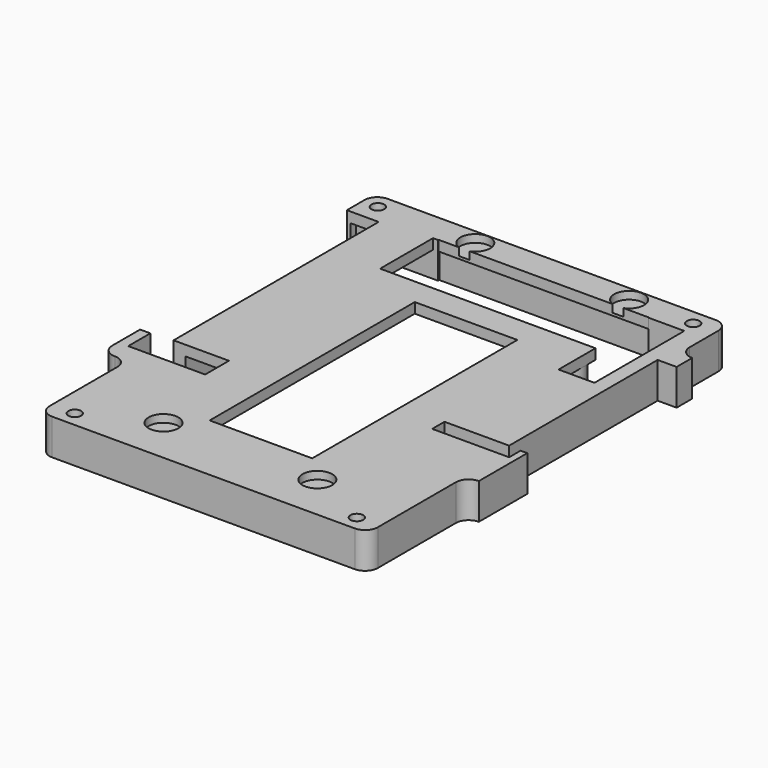
from build123d import *

# Parameters (mm, degrees)
PAD005_DEPTH         = 2
POCKET003_DEPTH      = 2
SKETCH009_R          = 2.7
PAD004_DEPTH         = 5.9
SKETCH013_W          = 25
SKETCH013_H          = 50.4
SKETCH013_H_2        = 36.4
POCKET007_DEPTH      = 5.901
POCKET007_DEPTH_BACK = 0.001
SKETCH016_W          = 2.35
SKETCH016_H          = 50.4
PAD008_DEPTH         = 15
SKETCH017_W          = 2.35
SKETCH017_H          = 36.4
PAD009_DEPTH         = 5
SKETCH019_R          = 2.9
POCKET009_DEPTH      = 1.5
PAD011_DEPTH         = 5
SKETCH023_W          = 8
SKETCH023_H          = 4.5
SKETCH023_W_2        = 10
PAD013_DEPTH         = 7
SKETCH025_R          = 1.25
POCKET011_DEPTH      = 17.001
POCKET011_DEPTH_BACK = 0.001
SKETCH033_W          = 20
SKETCH033_H          = 50
POCKET017_DEPTH      = 17.001
POCKET017_DEPTH_BACK = 0.001
SKETCH042_W          = 15
SKETCH042_H          = 5.8
SKETCH042_H_2        = 3
POCKET021_DEPTH      = 17.001
POCKET021_DEPTH_BACK = 0.001


with BuildPart() as part:
    # Sketch011 → Pad005 (new body)
    with BuildSketch(Plane.XY):
        with BuildLine():
            Line((-29.5, -64), (29.5, -64))
            ThreePointArc((29.5, -64), (31.267767, -63.267767), (32, -61.5))
            Line((32, -42.5), (32, -61.5))
            ThreePointArc((34.5, -40), (32.732233, -40.732233), (32, -42.5))
            Line((34.5, 12), (34.5, -40))
            ThreePointArc((32, 14.5), (32.732233, 12.732233), (34.5, 12))
            Line((32, 21.5), (32, 14.5))
            ThreePointArc((32, 21.5), (31.267767, 23.267767), (29.5, 24))
            Line((29.5, 24), (-34.5, 24))
            ThreePointArc((-34.5, 24), (-36.267767, 23.267767), (-37, 21.5))
            Line((-37, 21.5), (-37, -40))
            ThreePointArc((-37, -40), (-36.267767, -41.767767), (-34.5, -42.5))
            ThreePointArc((-32, -45), (-32.732233, -43.232233), (-34.5, -42.5))
            Line((-32, -45), (-32, -61.5))
            ThreePointArc((-32, -61.5), (-31.267767, -63.267767), (-29.5, -64))
        make_face()
    extrude(amount=-PAD005_DEPTH)

    # Sketch007 → Pocket003 (cut)
    with BuildSketch(Plane.XY):
        Polygon((-21, 18.3), (-21, 5.3), (21, 5.3), (21, -3.7), (28, -3.7), (28, 18.3), align=None)
    extrude(amount=-POCKET003_DEPTH, mode=Mode.SUBTRACT)

    # Sketch009 → Pad004 (join)
    with BuildSketch(Plane.XY):
        with Locations((-18.25, -26)):
            Circle(SKETCH009_R)
        with Locations((12.75, -21)):
            Circle(SKETCH009_R)
        with Locations((18.25, 2.5027)):
            Circle(SKETCH009_R)
    extrude(amount=-PAD004_DEPTH)

    # Sketch013 → Pocket007 (cut, two sides)
    with BuildSketch(Plane.XY) as pocket007_sk:
        with Locations((-43.3, -8)):
            Rectangle(SKETCH013_W, SKETCH013_H)
        with Locations((43.3, -10)):
            Rectangle(SKETCH013_W, SKETCH013_H_2)
    extrude(amount=-POCKET007_DEPTH, mode=Mode.SUBTRACT)
    extrude(pocket007_sk.sketch, amount=POCKET007_DEPTH_BACK, mode=Mode.SUBTRACT)

    # Sketch016 (on Face5 of Pocket007) → Pad008 (join)
    with BuildSketch(Plane(origin=(0, 0, -2), x_dir=(1, 0, 0), z_dir=(0, 0, -1))):
        with Locations((-29.625, 8)):
            Rectangle(SKETCH016_W, SKETCH016_H)
    extrude(amount=PAD008_DEPTH)

    # Sketch017 (on Face5 of Pocket007) → Pad009 (join)
    with BuildSketch(Plane(origin=(0, 0, -2), x_dir=(1, 0, 0), z_dir=(0, 0, -1))):
        with Locations((29.625, 10)):
            Rectangle(SKETCH017_W, SKETCH017_H)
    extrude(amount=PAD009_DEPTH)

    # Sketch019 → Pocket009 (cut)
    with BuildSketch(Plane.XY):
        with Locations((-15, 21)):
            Circle(SKETCH019_R)
        with Locations((15, 21)):
            Circle(SKETCH019_R)
        with Locations((-15, -55)):
            Circle(SKETCH019_R)
        with Locations((15, -55)):
            Circle(SKETCH019_R)
    extrude(amount=-POCKET009_DEPTH, mode=Mode.SUBTRACT)

    # Sketch021 (on Face5 of Pocket009) → Pad011 (join)
    with BuildSketch(Plane(origin=(0, 0, -2), x_dir=(1, 0, 0), z_dir=(0, 0, -1))):
        with BuildLine():
            Line((-29.5, 64), (29.5, 64))
            ThreePointArc((32, 61.5), (31.267767, 63.267767), (29.5, 64))
            Line((32, 61.5), (32, 42.5))
            ThreePointArc((32, 42.5), (32.732233, 40.732233), (34.5, 40))
            Line((34.5, 28.2), (34.5, 40))
            Line((29, 28.2), (34.5, 28.2))
            Line((29, 58.5), (29, 28.2))
            Line((-29, 58.5), (29, 58.5))
            Line((-29, 39.5), (-29, 58.5))
            Line((-34, 39.5), (-29, 39.5))
            Line((-34, 33.2), (-34, 39.5))
            Line((-37, 33.2), (-34, 33.2))
            Line((-37, 40), (-37, 33.2))
            ThreePointArc((-34.5, 42.5), (-36.267767, 41.767767), (-37, 40))
            ThreePointArc((-34.5, 42.5), (-32.732233, 43.232233), (-32, 45))
            Line((-32, 61.5), (-32, 45))
            ThreePointArc((-29.5, 64), (-31.267767, 63.267767), (-32, 61.5))
        make_face()
        with BuildLine():
            Line((34.5, -8.2), (34.5, -12))
            ThreePointArc((34.5, -12), (32.732233, -12.732233), (32, -14.5))
            Line((32, -14.5), (32, -21.5))
            ThreePointArc((29.5, -24), (31.267767, -23.267767), (32, -21.5))
            Line((29.5, -24), (-34.5, -24))
            ThreePointArc((-37, -21.5), (-36.267767, -23.267767), (-34.5, -24))
            Line((-37, -21.5), (-37, -17.2))
            Line((-37, -17.2), (-36.26856, -17.2))
            Line((-36.26856, -17.2), (-36.26856, -18.5))
            Line((-36.26856, -18.5), (29, -18.5))
            Line((29, -18.5), (29, -8.2))
            Line((29, -8.2), (34.5, -8.2))
        make_face()
    extrude(amount=PAD011_DEPTH)

    # Sketch023 → Pad013 (join)
    with BuildSketch(Plane.XY):
        with Locations((-24, 20.45)):
            Rectangle(SKETCH023_W, SKETCH023_H)
        with Locations((25, 20.45)):
            Rectangle(SKETCH023_W, SKETCH023_H)
        with Locations((-18.5, -48.97)):
            Rectangle(SKETCH023_W_2, SKETCH023_H)
        with Locations((18.5, -48.97)):
            Rectangle(SKETCH023_W_2, SKETCH023_H)
    extrude(amount=-PAD013_DEPTH)

    # Sketch025 → Pocket011 (cut, two sides)
    with BuildSketch(Plane.XY) as pocket011_sk:
        with Locations((-34, 21)):
            Circle(SKETCH025_R)
        with Locations((27.5, 21)):
            Circle(SKETCH025_R)
        with Locations((27.5, -61)):
            Circle(SKETCH025_R)
        with Locations((-27.5, -61)):
            Circle(SKETCH025_R)
    extrude(amount=-POCKET011_DEPTH, mode=Mode.SUBTRACT)
    extrude(pocket011_sk.sketch, amount=POCKET011_DEPTH_BACK, mode=Mode.SUBTRACT)

    # Sketch033 → Pocket017 (cut, two sides)
    with BuildSketch(Plane.XY) as pocket017_sk:
        with Locations((0, -25)):
            Rectangle(SKETCH033_W, SKETCH033_H)
    extrude(amount=-POCKET017_DEPTH, mode=Mode.SUBTRACT)
    extrude(pocket017_sk.sketch, amount=POCKET017_DEPTH_BACK, mode=Mode.SUBTRACT)

    # Sketch042 → Pocket021 (cut, two sides)
    with BuildSketch(Plane.XY) as pocket021_sk:
        with Locations((-27.5, -35.7)):
            Rectangle(SKETCH042_W, SKETCH042_H)
        with Locations((25.7, -29.5)):
            Rectangle(SKETCH042_W, SKETCH042_H_2)
    extrude(amount=-POCKET021_DEPTH, mode=Mode.SUBTRACT)
    extrude(pocket021_sk.sketch, amount=POCKET021_DEPTH_BACK, mode=Mode.SUBTRACT)


solid = part.part
